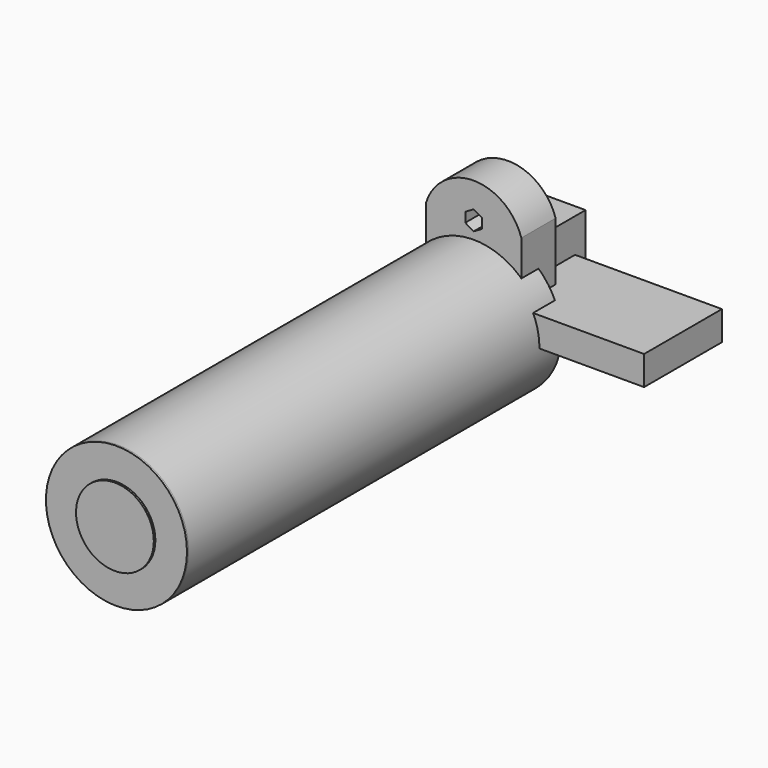
from build123d import *

# Parameters (mm, degrees)
F0_W      = 5.8
F0_H      = 12.7
F1_DEPTH  = 6.5
F2_W      = 0.4
F2_H      = 0.9
F3_DEPTH  = 3.5
F4_R      = 0.6
F5_DEPTH  = 1.45
F6_R      = 1.1
F7_DEPTH  = 5.8
F10_W     = 18
F10_H     = 10
F11_DEPTH = 3
F12_W     = 7.5
F12_H     = 7
F13_DEPTH = 0.6
F15_DEPTH = 4.4
F17_DEPTH = 4.4
F18_W     = 1.5
F18_H     = 0.25
F18_H_2   = 0.5
F19_DEPTH = 3.5


with BuildPart() as f1:
    # F0 (on Top) → F1 (new body)
    with BuildSketch(Plane.XY):
        Rectangle(F0_W, F0_H)
    extrude(amount=F1_DEPTH)

    # F2 (on face) → F3 (join)
    with BuildSketch(Plane(origin=(0, 0, 0), x_dir=(1, 0, 0), z_dir=(0, 0, -1))):
        with Locations((0, 5.08)):
            Rectangle(F2_W, F2_H)
        Rectangle(F2_W, F2_H)
        with Locations((0, -5.08)):
            Rectangle(F2_W, F2_H)
    extrude(amount=F3_DEPTH)

    # F4 (on Right) → F5 (join, symmetric)
    with BuildSketch(Plane.YZ):
        with Locations((1.95, 6.4)):
            Circle(F4_R)
    extrude(amount=F5_DEPTH, both=True)

    # F6 (on face) → F7 (cut, through all)
    with BuildSketch(Plane.YZ.offset(2.9)):
        with Locations((3.25, 1.5)):
            Circle(F6_R)
        with Locations((-3.75, 1.5)):
            Circle(F6_R)
    extrude(amount=-F7_DEPTH, mode=Mode.SUBTRACT)


with BuildPart() as f9:
    # F8 (on Top) → F9 (revolve)
    with BuildSketch(Plane.XY):
        Polygon((2.25, 0), (0, 0), (0, -50.5), (4, -50.5), (4, -50.3), (7.25, -50.3), (7.25, -2.2), (2.25, -2.2), align=None)
    revolve(axis=Axis((0, 14.5285641775, 0), (0, -1, 0)))


with BuildPart() as f11:
    # F10 (on Top) → F11 (new body)
    with BuildSketch(Plane.XY):
        with Locations((9, 0)):
            Rectangle(F10_W, F10_H)
    extrude(amount=F11_DEPTH)


with BuildPart() as f13:
    # F12 (on Top) → F13 (new body)
    with BuildSketch(Plane.XY):
        Rectangle(F12_W, F12_H)
    extrude(amount=F13_DEPTH)


with BuildPart() as f15:
    # F14 (on Front) → F15 (new body)
    with BuildSketch(Plane.XZ):
        with BuildLine():
            Line((-4.9, 0), (4.9, 0))
            Line((4.9, 0), (4.9, 9))
            ThreePointArc((4.9, 9), (0, 12.6), (-4.9, 9))
            Line((-4.9, 9), (-4.9, 0))
        make_face()
    extrude(amount=F15_DEPTH)

    # F16 (on face) → F17 (cut, through all)
    with BuildSketch(Plane.XZ.offset(4.4)):
        Polygon((0.865, 9.4994079828), (0, 9.9988159657), (-0.865, 9.4994079828), (-0.865, 8.5005920172), (0, 8.0011840343), (0.865, 8.5005920172), align=None)
    extrude(amount=-F17_DEPTH, mode=Mode.SUBTRACT)

    # F18 (on face) → F19 (join)
    with BuildSketch(Plane(origin=(0, 0, 0), x_dir=(1, 0, 0), z_dir=(0, 0, -1))):
        with Locations((2.5, 1.525)):
            Rectangle(F18_W, F18_H)
        with Locations((2.5, 1.275)):
            Rectangle(F18_W, F18_H)
        Polygon((-0.75, 1.15), (0.75, 1.15), (0.75, 1.4), (0.75, 1.65), (-0.75, 1.65), align=None)
        with Locations((-2.5, 1.4)):
            Rectangle(F18_W, F18_H_2)
    extrude(amount=F19_DEPTH)


with BuildPart() as f21:
    # F20 (on Top) → F21 (revolve)
    with BuildSketch(Plane.XY):
        Polygon((2.25, 0), (0, 0), (0, -50.5), (4, -50.5), (4, -50.1), (7.25, -50.1), (7.25, -2.2), (2.25, -2.2), align=None)
    revolve(axis=Axis((0, -25.25, 0), (0, -1, 0)))


solid = Compound([f1.part, f9.part, f11.part, f13.part, f15.part, f21.part])
